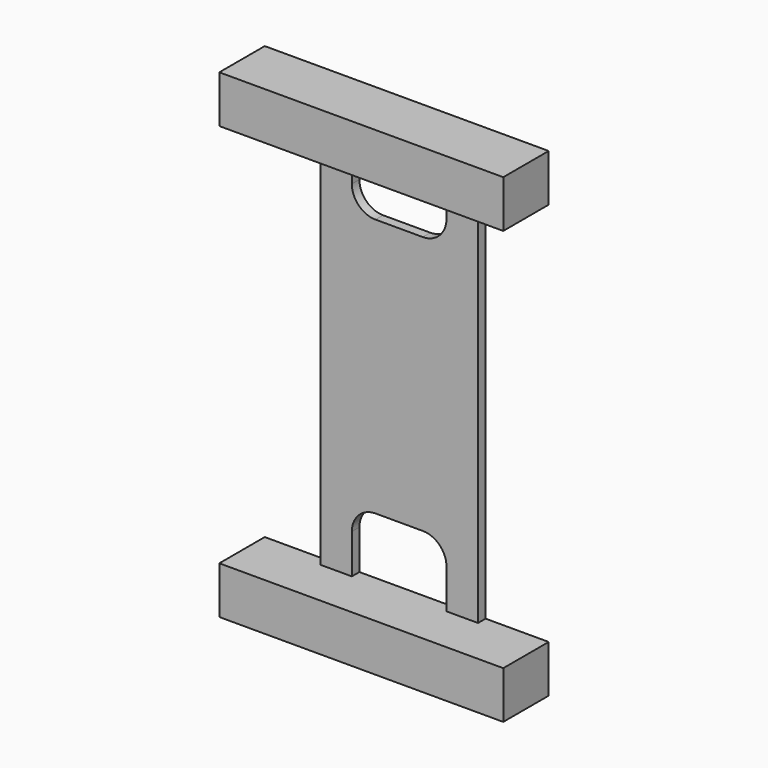
from build123d import *

# Parameters (mm, degrees)
PAD_DEPTH    = 3
SKETCH001_W  = 90
SKETCH001_H  = 15
PAD001_DEPTH = 15
SKETCH002_R  = 2.5
POCKET_DEPTH = 10


with BuildPart() as part:
    # Sketch → Pad (new body)
    with BuildSketch(Plane.XZ):
        Polygon((0, 152), (0, 137), (20, 137.000045), (20, 15), (0, 15), (0, 0), (90, 0), (90, 15), (70, 15), (70, 137.000045), (90, 137.000045), (90, 152), align=None)
        with BuildLine():
            ThreePointArc((30, 124.5), (32.196699, 119.196699), (37.5, 117))
            Line((37.5, 117), (52.5, 117))
            ThreePointArc((52.5, 117), (57.803301, 119.196699), (60, 124.5))
            Line((60, 124.5), (60, 137))
            Line((60, 137), (30, 137))
            Line((30, 124.5), (30, 137))
        make_face(mode=Mode.SUBTRACT)
        with BuildLine():
            ThreePointArc((37.5, 35), (32.196699, 32.803301), (30, 27.5))
            Line((30, 27.5), (30, 15))
            Line((30, 15), (60, 15))
            Line((60, 15), (60, 27.5))
            ThreePointArc((60, 27.5), (57.803301, 32.803301), (52.5, 35))
            Line((52.5, 35), (37.5, 35))
        make_face(mode=Mode.SUBTRACT)
    extrude(amount=PAD_DEPTH)

    # Sketch001 (on Face26 of Pad) → Pad001 (join)
    with BuildSketch(Plane.XZ.offset(3)):
        Polygon((0, 152), (0, 137), (90, 137.000045), (90, 152), align=None)
        with Locations((45, 7.5)):
            Rectangle(SKETCH001_W, SKETCH001_H)
    extrude(amount=PAD001_DEPTH)

    # Sketch002 (on Face2 of Pad001) → Pocket (cut)
    with BuildSketch(Plane(origin=(0, 0, 0), x_dir=(1, 0, 0), z_dir=(0, 1, 0))):
        with Locations((15, -7.5)):
            Circle(SKETCH002_R)
        with Locations((75, -7.5)):
            Circle(SKETCH002_R)
        with Locations((75, -144.5)):
            Circle(SKETCH002_R)
        with Locations((15, -144.5)):
            Circle(SKETCH002_R)
    extrude(amount=-POCKET_DEPTH, mode=Mode.SUBTRACT)


solid = part.part
